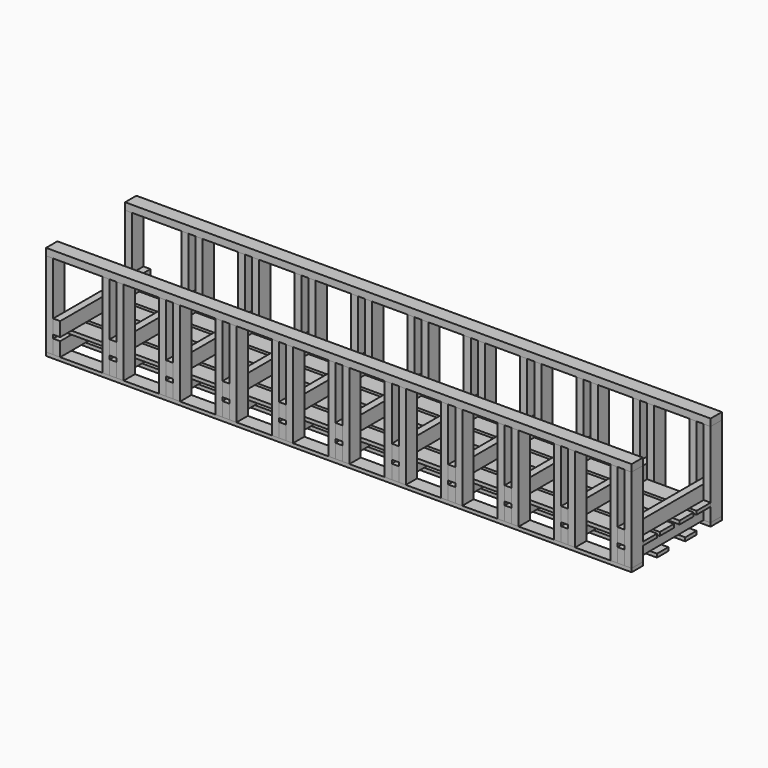
from build123d import *

# Parameters (mm, degrees)
F0_W          = 50.8
F0_H          = 101.6
F1_DEPTH      = 406.4
F2_W          = 127
F2_H          = 25.4
F3_DEPTH      = 4165.6
F3_DEPTH_BACK = 50.8
F2_W_2        = 101.6
F4_W          = 50.8
F4_H          = 101.6
F5_DEPTH      = 812.8
F7_DEPTH      = 101.6
F9_DEPTH      = 101.6
F10_W         = 101.6
F10_H         = 50.8
F11_DEPTH     = 4216.4


with BuildPart() as f1:
    # F0 (on Front) → F1 (new body, symmetric)
    with BuildSketch(Plane.XZ):
        with Locations((-2032, -50.8)):
            Rectangle(F0_W, F0_H)
    extrude(amount=F1_DEPTH, both=True)


with BuildPart() as f1b:
    # F0 (on Front) → F1, piece 2 (new body, symmetric)
    with BuildSketch(Plane.XZ):
        with Locations((-1625.6, -50.8)):
            Rectangle(F0_W, F0_H)
    extrude(amount=F1_DEPTH, both=True)


with BuildPart() as f1c:
    # F0 (on Front) → F1, piece 3 (new body, symmetric)
    with BuildSketch(Plane.XZ):
        with Locations((-1219.2, -50.8)):
            Rectangle(F0_W, F0_H)
    extrude(amount=F1_DEPTH, both=True)


with BuildPart() as f1d:
    # F0 (on Front) → F1, piece 4 (new body, symmetric)
    with BuildSketch(Plane.XZ):
        with Locations((-812.8, -50.8)):
            Rectangle(F0_W, F0_H)
    extrude(amount=F1_DEPTH, both=True)


with BuildPart() as f1e:
    # F0 (on Front) → F1, piece 5 (new body, symmetric)
    with BuildSketch(Plane.XZ):
        with Locations((-406.4, -50.8)):
            Rectangle(F0_W, F0_H)
    extrude(amount=F1_DEPTH, both=True)


with BuildPart() as f1f:
    # F0 (on Front) → F1, piece 6 (new body, symmetric)
    with BuildSketch(Plane.XZ):
        with Locations((0, -50.8)):
            Rectangle(F0_W, F0_H)
    extrude(amount=F1_DEPTH, both=True)


with BuildPart() as f1g:
    # F0 (on Front) → F1, piece 7 (new body, symmetric)
    with BuildSketch(Plane.XZ):
        with Locations((2032, -50.8)):
            Rectangle(F0_W, F0_H)
    extrude(amount=F1_DEPTH, both=True)


with BuildPart() as f1h:
    # F0 (on Front) → F1, piece 8 (new body, symmetric)
    with BuildSketch(Plane.XZ):
        with Locations((1625.6, -50.8)):
            Rectangle(F0_W, F0_H)
    extrude(amount=F1_DEPTH, both=True)


with BuildPart() as f1i:
    # F0 (on Front) → F1, piece 9 (new body, symmetric)
    with BuildSketch(Plane.XZ):
        with Locations((812.8, -50.8)):
            Rectangle(F0_W, F0_H)
    extrude(amount=F1_DEPTH, both=True)


with BuildPart() as f1j:
    # F0 (on Front) → F1, piece 10 (new body, symmetric)
    with BuildSketch(Plane.XZ):
        with Locations((1219.2, -50.8)):
            Rectangle(F0_W, F0_H)
    extrude(amount=F1_DEPTH, both=True)


with BuildPart() as f1k:
    # F0 (on Front) → F1, piece 11 (new body, symmetric)
    with BuildSketch(Plane.XZ):
        with Locations((406.4, -50.8)):
            Rectangle(F0_W, F0_H)
    extrude(amount=F1_DEPTH, both=True)


with BuildPart() as f3:
    # F2 (on face) → F3 (new body, two sides)
    with BuildSketch(Plane(origin=(-2057.4, 0, 0), x_dir=(0, -1, 0), z_dir=(-1, 0, 0))) as f3_sk:
        with Locations((-88.9, 12.7)):
            Rectangle(F2_W, F2_H)
    extrude(amount=-F3_DEPTH)
    extrude(f3_sk.sketch, amount=F3_DEPTH_BACK)


with BuildPart() as f3b:
    # F2 (on face) → F3, piece 2 (new body, two sides)
    with BuildSketch(Plane(origin=(-2057.4, 0, 0), x_dir=(0, -1, 0), z_dir=(-1, 0, 0))) as f3_2_sk:
        with Locations((-241.3, 12.7)):
            Rectangle(F2_W, F2_H)
    extrude(amount=-F3_DEPTH)
    extrude(f3_2_sk.sketch, amount=F3_DEPTH_BACK)


with BuildPart() as f3c:
    # F2 (on face) → F3, piece 3 (new body, two sides)
    with BuildSketch(Plane(origin=(-2057.4, 0, 0), x_dir=(0, -1, 0), z_dir=(-1, 0, 0))) as f3_3_sk:
        with Locations((-355.6, -114.3)):
            Rectangle(F2_W_2, F2_H)
    extrude(amount=-F3_DEPTH)
    extrude(f3_3_sk.sketch, amount=F3_DEPTH_BACK)


with BuildPart() as f3d:
    # F2 (on face) → F3, piece 4 (new body, two sides)
    with BuildSketch(Plane(origin=(-2057.4, 0, 0), x_dir=(0, -1, 0), z_dir=(-1, 0, 0))) as f3_4_sk:
        with Locations((88.9, 12.7)):
            Rectangle(F2_W, F2_H)
    extrude(amount=-F3_DEPTH)
    extrude(f3_4_sk.sketch, amount=F3_DEPTH_BACK)


with BuildPart() as f3e:
    # F2 (on face) → F3, piece 5 (new body, two sides)
    with BuildSketch(Plane(origin=(-2057.4, 0, 0), x_dir=(0, -1, 0), z_dir=(-1, 0, 0))) as f3_5_sk:
        with Locations((241.3, 12.7)):
            Rectangle(F2_W, F2_H)
    extrude(amount=-F3_DEPTH)
    extrude(f3_5_sk.sketch, amount=F3_DEPTH_BACK)


with BuildPart() as f3f:
    # F2 (on face) → F3, piece 6 (new body, two sides)
    with BuildSketch(Plane(origin=(-2057.4, 0, 0), x_dir=(0, -1, 0), z_dir=(-1, 0, 0))) as f3_6_sk:
        with Locations((355.6, -114.3)):
            Rectangle(F2_W_2, F2_H)
    extrude(amount=-F3_DEPTH)
    extrude(f3_6_sk.sketch, amount=F3_DEPTH_BACK)


with BuildPart() as f3g:
    # F2 (on face) → F3, piece 7 (new body, two sides)
    with BuildSketch(Plane(origin=(-2057.4, 0, 0), x_dir=(0, -1, 0), z_dir=(-1, 0, 0))) as f3_7_sk:
        with Locations((-127, -114.3)):
            Rectangle(F2_W_2, F2_H)
    extrude(amount=-F3_DEPTH)
    extrude(f3_7_sk.sketch, amount=F3_DEPTH_BACK)


with BuildPart() as f3h:
    # F2 (on face) → F3, piece 8 (new body, two sides)
    with BuildSketch(Plane(origin=(-2057.4, 0, 0), x_dir=(0, -1, 0), z_dir=(-1, 0, 0))) as f3_8_sk:
        with Locations((127, -114.3)):
            Rectangle(F2_W_2, F2_H)
    extrude(amount=-F3_DEPTH)
    extrude(f3_8_sk.sketch, amount=F3_DEPTH_BACK)


with BuildPart() as f5:
    # F4 (on face) → F5 (new body, through all)
    with BuildSketch(Plane.XZ.offset(406.4)):
        with Locations((-2032, 76.2)):
            Rectangle(F4_W, F4_H)
    extrude(amount=-F5_DEPTH)


with BuildPart() as f5b:
    # F4 (on face) → F5, piece 2 (new body, through all)
    with BuildSketch(Plane.XZ.offset(406.4)):
        with Locations((-1625.6, 76.2)):
            Rectangle(F4_W, F4_H)
    extrude(amount=-F5_DEPTH)


with BuildPart() as f5c:
    # F4 (on face) → F5, piece 3 (new body, through all)
    with BuildSketch(Plane.XZ.offset(406.4)):
        with Locations((-1219.2, 76.2)):
            Rectangle(F4_W, F4_H)
    extrude(amount=-F5_DEPTH)


with BuildPart() as f5d:
    # F4 (on face) → F5, piece 4 (new body, through all)
    with BuildSketch(Plane.XZ.offset(406.4)):
        with Locations((-812.8, 76.2)):
            Rectangle(F4_W, F4_H)
    extrude(amount=-F5_DEPTH)


with BuildPart() as f5e:
    # F4 (on face) → F5, piece 5 (new body, through all)
    with BuildSketch(Plane.XZ.offset(406.4)):
        with Locations((-406.4, 76.2)):
            Rectangle(F4_W, F4_H)
    extrude(amount=-F5_DEPTH)


with BuildPart() as f5f:
    # F4 (on face) → F5, piece 6 (new body, through all)
    with BuildSketch(Plane.XZ.offset(406.4)):
        with Locations((0, 76.2)):
            Rectangle(F4_W, F4_H)
    extrude(amount=-F5_DEPTH)


with BuildPart() as f5g:
    # F4 (on face) → F5, piece 7 (new body, through all)
    with BuildSketch(Plane.XZ.offset(406.4)):
        with Locations((406.4, 76.2)):
            Rectangle(F4_W, F4_H)
    extrude(amount=-F5_DEPTH)


with BuildPart() as f5h:
    # F4 (on face) → F5, piece 8 (new body, through all)
    with BuildSketch(Plane.XZ.offset(406.4)):
        with Locations((812.8, 76.2)):
            Rectangle(F4_W, F4_H)
    extrude(amount=-F5_DEPTH)


with BuildPart() as f5i:
    # F4 (on face) → F5, piece 9 (new body, through all)
    with BuildSketch(Plane.XZ.offset(406.4)):
        with Locations((1219.2, 76.2)):
            Rectangle(F4_W, F4_H)
    extrude(amount=-F5_DEPTH)


with BuildPart() as f5j:
    # F4 (on face) → F5, piece 10 (new body, through all)
    with BuildSketch(Plane.XZ.offset(406.4)):
        with Locations((1625.6, 76.2)):
            Rectangle(F4_W, F4_H)
    extrude(amount=-F5_DEPTH)


with BuildPart() as f5k:
    # F4 (on face) → F5, piece 11 (new body, through all)
    with BuildSketch(Plane.XZ.offset(406.4)):
        with Locations((2032, 76.2)):
            Rectangle(F4_W, F4_H)
    extrude(amount=-F5_DEPTH)


with BuildPart() as f7:
    # F6 (on face) → F7 (new body)
    with BuildSketch(Plane.XZ.offset(406.4)):
        Polygon((-2057.4, -101.6), (-2057.4, 0), (-2057.4, 508), (-2108.2, 508), (-2108.2, -101.6), align=None)
    extrude(amount=-F7_DEPTH)


with BuildPart() as f7b:
    # F6 (on face) → F7, piece 2 (new body)
    with BuildSketch(Plane.XZ.offset(406.4)):
        Polygon((-1651, -101.6), (-1651, 0), (-1651, 508), (-1701.8, 508), (-1701.8, -101.6), align=None)
    extrude(amount=-F7_DEPTH)


with BuildPart() as f7c:
    # F6 (on face) → F7, piece 3 (new body)
    with BuildSketch(Plane.XZ.offset(406.4)):
        Polygon((-1600.2, 508), (-1600.2, 0), (-1600.2, -101.6), (-1549.4, -101.6), (-1549.4, 508), align=None)
    extrude(amount=-F7_DEPTH)


with BuildPart() as f7d:
    # F6 (on face) → F7, piece 4 (new body)
    with BuildSketch(Plane.XZ.offset(406.4)):
        Polygon((-1193.8, 508), (-1193.8, 0), (-1193.8, -101.6), (-1143, -101.6), (-1143, 508), align=None)
    extrude(amount=-F7_DEPTH)


with BuildPart() as f7e:
    # F6 (on face) → F7, piece 5 (new body)
    with BuildSketch(Plane.XZ.offset(406.4)):
        Polygon((-1244.6, -101.6), (-1244.6, 0), (-1244.6, 508), (-1295.4, 508), (-1295.4, -101.6), align=None)
    extrude(amount=-F7_DEPTH)


with BuildPart() as f7f:
    # F6 (on face) → F7, piece 6 (new body)
    with BuildSketch(Plane.XZ.offset(406.4)):
        Polygon((-838.2, -101.6), (-838.2, 0), (-838.2, 508), (-889, 508), (-889, -101.6), align=None)
    extrude(amount=-F7_DEPTH)


with BuildPart() as f7g:
    # F6 (on face) → F7, piece 7 (new body)
    with BuildSketch(Plane.XZ.offset(406.4)):
        Polygon((-787.4, 508), (-787.4, 0), (-787.4, -101.6), (-736.6, -101.6), (-736.6, 508), align=None)
    extrude(amount=-F7_DEPTH)


with BuildPart() as f7h:
    # F6 (on face) → F7, piece 8 (new body)
    with BuildSketch(Plane.XZ.offset(406.4)):
        Polygon((-431.8, -101.6), (-431.8, 0), (-431.8, 508), (-482.6, 508), (-482.6, -101.6), align=None)
    extrude(amount=-F7_DEPTH)


with BuildPart() as f7i:
    # F6 (on face) → F7, piece 9 (new body)
    with BuildSketch(Plane.XZ.offset(406.4)):
        Polygon((-381, 508), (-381, 0), (-381, -101.6), (-330.2, -101.6), (-330.2, 508), align=None)
    extrude(amount=-F7_DEPTH)


with BuildPart() as f7j:
    # F6 (on face) → F7, piece 10 (new body)
    with BuildSketch(Plane.XZ.offset(406.4)):
        Polygon((-25.4, -101.6), (-25.4, 0), (-25.4, 508), (-76.2, 508), (-76.2, -101.6), align=None)
    extrude(amount=-F7_DEPTH)


with BuildPart() as f7k:
    # F6 (on face) → F7, piece 11 (new body)
    with BuildSketch(Plane.XZ.offset(406.4)):
        Polygon((25.4, 508), (25.4, 0), (25.4, -101.6), (76.2, -101.6), (76.2, 508), align=None)
    extrude(amount=-F7_DEPTH)


with BuildPart() as f7l:
    # F6 (on face) → F7, piece 12 (new body)
    with BuildSketch(Plane.XZ.offset(406.4)):
        Polygon((381, -101.6), (381, 0), (381, 508), (330.2, 508), (330.2, -101.6), align=None)
    extrude(amount=-F7_DEPTH)


with BuildPart() as f7m:
    # F6 (on face) → F7, piece 13 (new body)
    with BuildSketch(Plane.XZ.offset(406.4)):
        Polygon((431.8, 508), (431.8, 0), (431.8, -101.6), (482.6, -101.6), (482.6, 508), align=None)
    extrude(amount=-F7_DEPTH)


with BuildPart() as f7n:
    # F6 (on face) → F7, piece 14 (new body)
    with BuildSketch(Plane.XZ.offset(406.4)):
        Polygon((787.4, -101.6), (787.4, 0), (787.4, 508), (736.6, 508), (736.6, -101.6), align=None)
    extrude(amount=-F7_DEPTH)


with BuildPart() as f7o:
    # F6 (on face) → F7, piece 15 (new body)
    with BuildSketch(Plane.XZ.offset(406.4)):
        Polygon((838.2, 508), (838.2, 0), (838.2, -101.6), (889, -101.6), (889, 508), align=None)
    extrude(amount=-F7_DEPTH)


with BuildPart() as f7p:
    # F6 (on face) → F7, piece 16 (new body)
    with BuildSketch(Plane.XZ.offset(406.4)):
        Polygon((1193.8, -101.6), (1193.8, 0), (1193.8, 508), (1143, 508), (1143, -101.6), align=None)
    extrude(amount=-F7_DEPTH)


with BuildPart() as f7q:
    # F6 (on face) → F7, piece 17 (new body)
    with BuildSketch(Plane.XZ.offset(406.4)):
        Polygon((1244.6, 508), (1244.6, 0), (1244.6, -101.6), (1295.4, -101.6), (1295.4, 508), align=None)
    extrude(amount=-F7_DEPTH)


with BuildPart() as f7r:
    # F6 (on face) → F7, piece 18 (new body)
    with BuildSketch(Plane.XZ.offset(406.4)):
        Polygon((1600.2, -101.6), (1600.2, 0), (1600.2, 508), (1549.4, 508), (1549.4, -101.6), align=None)
    extrude(amount=-F7_DEPTH)


with BuildPart() as f7s:
    # F6 (on face) → F7, piece 19 (new body)
    with BuildSketch(Plane.XZ.offset(406.4)):
        Polygon((1651, 508), (1651, 0), (1651, -101.6), (1701.8, -101.6), (1701.8, 508), align=None)
    extrude(amount=-F7_DEPTH)


with BuildPart() as f7t:
    # F6 (on face) → F7, piece 20 (new body)
    with BuildSketch(Plane.XZ.offset(406.4)):
        Polygon((2006.6, -101.6), (2006.6, 0), (2006.6, 508), (1955.8, 508), (1955.8, -101.6), align=None)
    extrude(amount=-F7_DEPTH)


with BuildPart() as f7u:
    # F6 (on face) → F7, piece 21 (new body)
    with BuildSketch(Plane.XZ.offset(406.4)):
        Polygon((2057.4, 508), (2057.4, 0), (2057.4, -101.6), (2108.2, -101.6), (2108.2, 508), align=None)
    extrude(amount=-F7_DEPTH)


with BuildPart() as f9:
    # F8 (on face) → F9 (new body)
    with BuildSketch(Plane(origin=(0, 406.4, 0), x_dir=(-1, 0, 0), z_dir=(0, 1, 0))):
        Polygon((1549.4, -101.6), (1600.2, -101.6), (1600.2, 0), (1600.2, 508), (1549.4, 508), align=None)
    extrude(amount=-F9_DEPTH)


with BuildPart() as f9b:
    # F8 (on face) → F9, piece 2 (new body)
    with BuildSketch(Plane(origin=(0, 406.4, 0), x_dir=(-1, 0, 0), z_dir=(0, 1, 0))):
        Polygon((-482.6, 508), (-482.6, -101.6), (-431.8, -101.6), (-431.8, 0), (-431.8, 508), align=None)
    extrude(amount=-F9_DEPTH)


with BuildPart() as f9c:
    # F8 (on face) → F9, piece 3 (new body)
    with BuildSketch(Plane(origin=(0, 406.4, 0), x_dir=(-1, 0, 0), z_dir=(0, 1, 0))):
        Polygon((1143, 508), (1143, -101.6), (1193.8, -101.6), (1193.8, 0), (1193.8, 508), align=None)
    extrude(amount=-F9_DEPTH)


with BuildPart() as f9d:
    # F8 (on face) → F9, piece 4 (new body)
    with BuildSketch(Plane(origin=(0, 406.4, 0), x_dir=(-1, 0, 0), z_dir=(0, 1, 0))):
        Polygon((1651, 0), (1651, -101.6), (1701.8, -101.6), (1701.8, 508), (1651, 508), align=None)
    extrude(amount=-F9_DEPTH)


with BuildPart() as f9e:
    # F8 (on face) → F9, piece 5 (new body)
    with BuildSketch(Plane(origin=(0, 406.4, 0), x_dir=(-1, 0, 0), z_dir=(0, 1, 0))):
        Polygon((889, 508), (838.2, 508), (838.2, 0), (838.2, -101.6), (889, -101.6), align=None)
    extrude(amount=-F9_DEPTH)


with BuildPart() as f9f:
    # F8 (on face) → F9, piece 6 (new body)
    with BuildSketch(Plane(origin=(0, 406.4, 0), x_dir=(-1, 0, 0), z_dir=(0, 1, 0))):
        Polygon((-1549.4, 508), (-1600.2, 508), (-1600.2, 0), (-1600.2, -101.6), (-1549.4, -101.6), align=None)
    extrude(amount=-F9_DEPTH)


with BuildPart() as f9g:
    # F8 (on face) → F9, piece 7 (new body)
    with BuildSketch(Plane(origin=(0, 406.4, 0), x_dir=(-1, 0, 0), z_dir=(0, 1, 0))):
        Polygon((-736.6, 508), (-787.4, 508), (-787.4, 0), (-787.4, -101.6), (-736.6, -101.6), align=None)
    extrude(amount=-F9_DEPTH)


with BuildPart() as f9h:
    # F8 (on face) → F9, piece 8 (new body)
    with BuildSketch(Plane(origin=(0, 406.4, 0), x_dir=(-1, 0, 0), z_dir=(0, 1, 0))):
        Polygon((-1295.4, 508), (-1295.4, -101.6), (-1244.6, -101.6), (-1244.6, 0), (-1244.6, 508), align=None)
    extrude(amount=-F9_DEPTH)


with BuildPart() as f9i:
    # F8 (on face) → F9, piece 9 (new body)
    with BuildSketch(Plane(origin=(0, 406.4, 0), x_dir=(-1, 0, 0), z_dir=(0, 1, 0))):
        Polygon((2057.4, 0), (2057.4, -101.6), (2108.2, -101.6), (2108.2, 508), (2057.4, 508), align=None)
    extrude(amount=-F9_DEPTH)


with BuildPart() as f9j:
    # F8 (on face) → F9, piece 10 (new body)
    with BuildSketch(Plane(origin=(0, 406.4, 0), x_dir=(-1, 0, 0), z_dir=(0, 1, 0))):
        Polygon((76.2, 508), (25.4, 508), (25.4, 0), (25.4, -101.6), (76.2, -101.6), align=None)
    extrude(amount=-F9_DEPTH)


with BuildPart() as f9k:
    # F8 (on face) → F9, piece 11 (new body)
    with BuildSketch(Plane(origin=(0, 406.4, 0), x_dir=(-1, 0, 0), z_dir=(0, 1, 0))):
        Polygon((330.2, 508), (330.2, -101.6), (381, -101.6), (381, 0), (381, 508), align=None)
    extrude(amount=-F9_DEPTH)


with BuildPart() as f9l:
    # F8 (on face) → F9, piece 12 (new body)
    with BuildSketch(Plane(origin=(0, 406.4, 0), x_dir=(-1, 0, 0), z_dir=(0, 1, 0))):
        Polygon((-2057.4, 0), (-2057.4, 508), (-2108.2, 508), (-2108.2, -101.6), (-2057.4, -101.6), align=None)
    extrude(amount=-F9_DEPTH)


with BuildPart() as f9m:
    # F8 (on face) → F9, piece 13 (new body)
    with BuildSketch(Plane(origin=(0, 406.4, 0), x_dir=(-1, 0, 0), z_dir=(0, 1, 0))):
        Polygon((-1701.8, -101.6), (-1651, -101.6), (-1651, 0), (-1651, 508), (-1701.8, 508), align=None)
    extrude(amount=-F9_DEPTH)


with BuildPart() as f9n:
    # F8 (on face) → F9, piece 14 (new body)
    with BuildSketch(Plane(origin=(0, 406.4, 0), x_dir=(-1, 0, 0), z_dir=(0, 1, 0))):
        Polygon((736.6, -101.6), (787.4, -101.6), (787.4, 0), (787.4, 508), (736.6, 508), align=None)
    extrude(amount=-F9_DEPTH)


with BuildPart() as f9o:
    # F8 (on face) → F9, piece 15 (new body)
    with BuildSketch(Plane(origin=(0, 406.4, 0), x_dir=(-1, 0, 0), z_dir=(0, 1, 0))):
        Polygon((-889, -101.6), (-838.2, -101.6), (-838.2, 0), (-838.2, 508), (-889, 508), align=None)
    extrude(amount=-F9_DEPTH)


with BuildPart() as f9p:
    # F8 (on face) → F9, piece 16 (new body)
    with BuildSketch(Plane(origin=(0, 406.4, 0), x_dir=(-1, 0, 0), z_dir=(0, 1, 0))):
        Polygon((-76.2, -101.6), (-25.4, -101.6), (-25.4, 0), (-25.4, 508), (-76.2, 508), align=None)
    extrude(amount=-F9_DEPTH)


with BuildPart() as f9q:
    # F8 (on face) → F9, piece 17 (new body)
    with BuildSketch(Plane(origin=(0, 406.4, 0), x_dir=(-1, 0, 0), z_dir=(0, 1, 0))):
        Polygon((-1193.8, 508), (-1193.8, 0), (-1193.8, -101.6), (-1143, -101.6), (-1143, 508), align=None)
    extrude(amount=-F9_DEPTH)


with BuildPart() as f9r:
    # F8 (on face) → F9, piece 18 (new body)
    with BuildSketch(Plane(origin=(0, 406.4, 0), x_dir=(-1, 0, 0), z_dir=(0, 1, 0))):
        Polygon((-2006.6, 0), (-2006.6, -101.6), (-1955.8, -101.6), (-1955.8, 508), (-2006.6, 508), align=None)
    extrude(amount=-F9_DEPTH)


with BuildPart() as f9s:
    # F8 (on face) → F9, piece 19 (new body)
    with BuildSketch(Plane(origin=(0, 406.4, 0), x_dir=(-1, 0, 0), z_dir=(0, 1, 0))):
        Polygon((-381, 0), (-381, -101.6), (-330.2, -101.6), (-330.2, 508), (-381, 508), align=None)
    extrude(amount=-F9_DEPTH)


with BuildPart() as f9t:
    # F8 (on face) → F9, piece 20 (new body)
    with BuildSketch(Plane(origin=(0, 406.4, 0), x_dir=(-1, 0, 0), z_dir=(0, 1, 0))):
        Polygon((431.8, 0), (431.8, -101.6), (482.6, -101.6), (482.6, 508), (431.8, 508), align=None)
    extrude(amount=-F9_DEPTH)


with BuildPart() as f9u:
    # F8 (on face) → F9, piece 21 (new body)
    with BuildSketch(Plane(origin=(0, 406.4, 0), x_dir=(-1, 0, 0), z_dir=(0, 1, 0))):
        Polygon((1244.6, 0), (1244.6, -101.6), (1295.4, -101.6), (1295.4, 508), (1244.6, 508), align=None)
    extrude(amount=-F9_DEPTH)


with BuildPart() as f11:
    # F10 (on face) → F11 (new body, through all)
    with BuildSketch(Plane.YZ.offset(2108.2)):
        with Locations((-355.6, 533.4)):
            Rectangle(F10_W, F10_H)
    extrude(amount=-F11_DEPTH)


with BuildPart() as f11b:
    # F10 (on face) → F11, piece 2 (new body, through all)
    with BuildSketch(Plane.YZ.offset(2108.2)):
        with Locations((355.6, 533.4)):
            Rectangle(F10_W, F10_H)
    extrude(amount=-F11_DEPTH)


solid = Compound([f1.part, f1b.part, f1c.part, f1d.part, f1e.part, f1f.part, f1g.part, f1h.part, f1i.part, f1j.part, f1k.part, f3.part, f3b.part, f3c.part, f3d.part, f3e.part, f3f.part, f3g.part, f3h.part, f5.part, f5b.part, f5c.part, f5d.part, f5e.part, f5f.part, f5g.part, f5h.part, f5i.part, f5j.part, f5k.part, f7.part, f7b.part, f7c.part, f7d.part, f7e.part, f7f.part, f7g.part, f7h.part, f7i.part, f7j.part, f7k.part, f7l.part, f7m.part, f7n.part, f7o.part, f7p.part, f7q.part, f7r.part, f7s.part, f7t.part, f7u.part, f9.part, f9b.part, f9c.part, f9d.part, f9e.part, f9f.part, f9g.part, f9h.part, f9i.part, f9j.part, f9k.part, f9l.part, f9m.part, f9n.part, f9o.part, f9p.part, f9q.part, f9r.part, f9s.part, f9t.part, f9u.part, f11.part, f11b.part])
